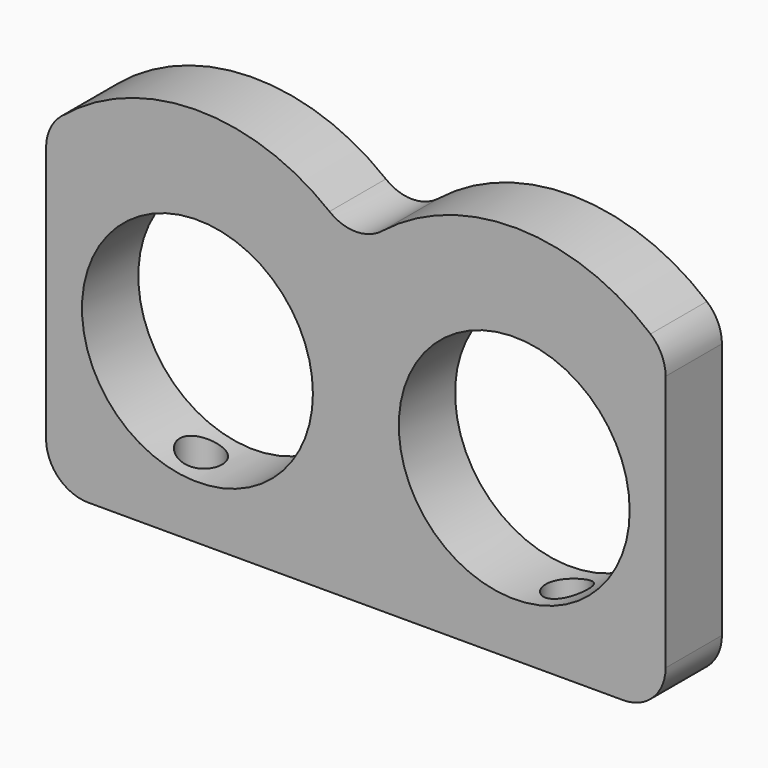
from build123d import *

# Parameters (mm, degrees)
SKETCH_R     = 8.2
PAD_DEPTH    = 5
FILLET_R     = 3
FILLET001_R  = 3
FILLET002_R  = 3
SKETCH001_R  = 1.5
POCKET_DEPTH = 5


with BuildPart() as part:
    # Sketch → Pad (new body)
    with BuildSketch(Plane.XZ):
        with BuildLine():
            Line((0, 0), (44, 0))
            Line((44, 0), (44, 22.535654))
            ThreePointArc((44, 22.535654), (32.883624, 27.047534), (22, 22))
            ThreePointArc((22, 22), (11.116376, 27.047534), (0, 22.535654))
            Line((0, 0), (0, 22.535654))
        make_face()
        with Locations((10.75, 12)):
            Circle(SKETCH_R, mode=Mode.SUBTRACT)
        with Locations((33.25, 12)):
            Circle(SKETCH_R, mode=Mode.SUBTRACT)
    extrude(amount=PAD_DEPTH)

    # Fillet
    fillet_edges = [part.edges().sort_by_distance(p)[0] for p in [
        (0, -2.5, 0),
        (44, -2.5, 0),
    ]]
    fillet(fillet_edges, radius=FILLET_R)

    # Fillet001
    fillet001_edges = [part.edges().sort_by_distance(p)[0] for p in [
        (22, -2.5, 22),
    ]]
    fillet(fillet001_edges, radius=FILLET001_R)

    # Fillet002
    fillet002_edges = [part.edges().sort_by_distance(p)[0] for p in [
        (44, -2.5, 22.535654),
        (0, -2.5, 22.535654),
    ]]
    fillet(fillet002_edges, radius=FILLET002_R)

    # Sketch001 → Pocket (cut)
    with BuildSketch(Plane(origin=(0, 0, 0), x_dir=(1, 0, 0), z_dir=(0, 0, -1))):
        with Locations((9, 2.5)):
            Circle(SKETCH001_R)
        with Locations((35, 2.5)):
            Circle(SKETCH001_R)
        with Locations((22, 2.5)):
            Circle(SKETCH001_R)
    extrude(amount=-POCKET_DEPTH, mode=Mode.SUBTRACT)


solid = part.part
